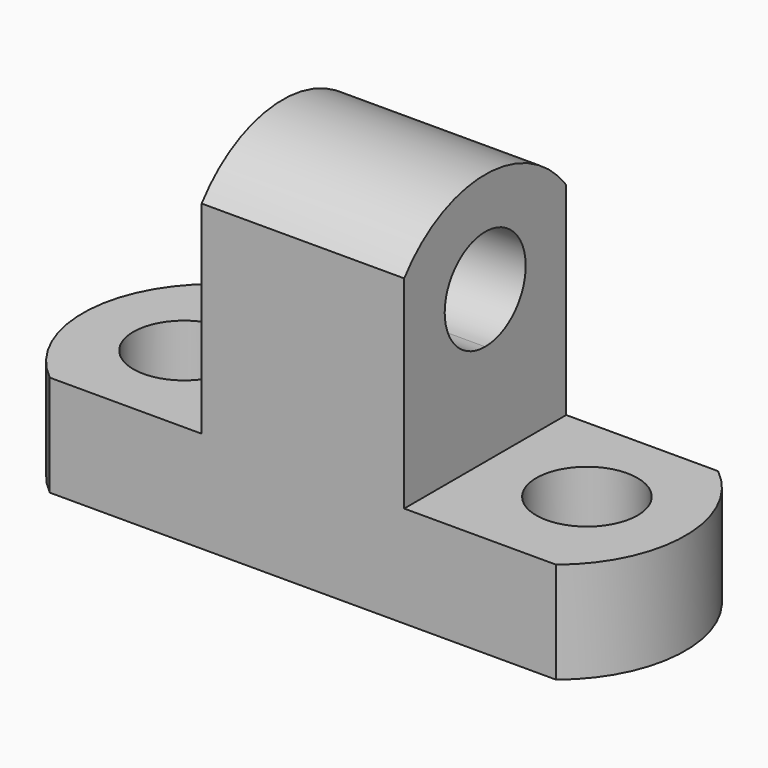
from build123d import *

# Parameters (mm, degrees)
F0_W      = 76.2
F0_H      = 44.45
F1_DEPTH  = 25.4
F2_W      = 25.4
F2_H      = 31.75
F3_DEPTH  = 25.401
F5_DEPTH  = 50.801
F7_DEPTH  = 12.701
F9_DEPTH  = 12.701
F11_DEPTH = 50.501718
F13_DEPTH = 12.701
F14_R     = 6.35
F15_DEPTH = 12.701


with BuildPart() as f1:
    # F0 (on Front) → F1 (new body)
    with BuildSketch(Plane.XZ):
        with Locations((-38.1, 22.225)):
            Rectangle(F0_W, F0_H)
    extrude(amount=F1_DEPTH)

    # F2 (on face) → F3 (cut, through all)
    with BuildSketch(Plane.XZ.offset(25.4)):
        with Locations((-63.5, 28.575)):
            Rectangle(F2_W, F2_H)
        with Locations((-12.7, 28.575)):
            Rectangle(F2_W, F2_H)
    extrude(amount=-F3_DEPTH, mode=Mode.SUBTRACT)

    # F4 (on face) → F5 (cut, through all)
    with BuildSketch(Plane.YZ.offset(-25.4)):
        with BuildLine():
            Line((-25.4, 44.45), (-25.4, 38.112387))
            ThreePointArc((-25.4, 38.112387), (-12.7, 44.420951), (0, 38.112387))
            Line((0, 38.112387), (0, 44.45))
            Line((0, 44.45), (-25.4, 44.45))
        make_face()
    extrude(amount=-F5_DEPTH, mode=Mode.SUBTRACT)

    # F6 (on face) → F7 (cut, through all)
    with BuildSketch(Plane.XY.offset(12.7)):
        with BuildLine():
            Line((0, 0), (-6.35, 0))
            ThreePointArc((-6.35, 0), (-0.299282, -12.7), (-6.35, -25.4))
            Line((-6.35, -25.4), (0, -25.4))
            Line((0, -25.4), (0, 0))
        make_face()
    extrude(amount=-F7_DEPTH, mode=Mode.SUBTRACT)

    # F8 (on face) → F9 (cut, through all)
    with BuildSketch(Plane.XY.offset(12.7)):
        with BuildLine():
            Line((-76.2, -25.4), (-69.85, -25.4))
            ThreePointArc((-69.85, -25.4), (-75.870322, -12.7), (-69.85, 0))
            Line((-69.85, 0), (-76.2, 0))
            Line((-76.2, 0), (-76.2, -25.4))
        make_face()
    extrude(amount=-F9_DEPTH, mode=Mode.SUBTRACT)

    # F10 (on face) → F11 (cut, through all)
    with BuildSketch(Plane(origin=(-50.8, 0, 0), x_dir=(0, -1, 0), z_dir=(-1, 0, 0))):
        with BuildLine():
            ThreePointArc((19.05, 31.747822), (8.209872, 36.23795), (12.7, 25.397822))
            ThreePointArc((12.7, 25.397822), (17.190128, 27.257694), (19.05, 31.747822))
        make_face()
    extrude(amount=-F11_DEPTH, mode=Mode.SUBTRACT)

    # F12 (on face) → F13 (cut, through all)
    with BuildSketch(Plane.XY.offset(12.7)):
        with BuildLine():
            ThreePointArc((-56.820322, -12.7), (-63.170322, -6.35), (-69.520322, -12.7))
            ThreePointArc((-69.520322, -12.7), (-63.170322, -19.05), (-56.820322, -12.7))
        make_face()
    extrude(amount=-F13_DEPTH, mode=Mode.SUBTRACT)

    # F14 (on face) → F15 (cut, through all)
    with BuildSketch(Plane.XY.offset(12.7)):
        with Locations((-12.999282, -12.259598)):
            Circle(F14_R)
    extrude(amount=-F15_DEPTH, mode=Mode.SUBTRACT)


solid = f1.part
